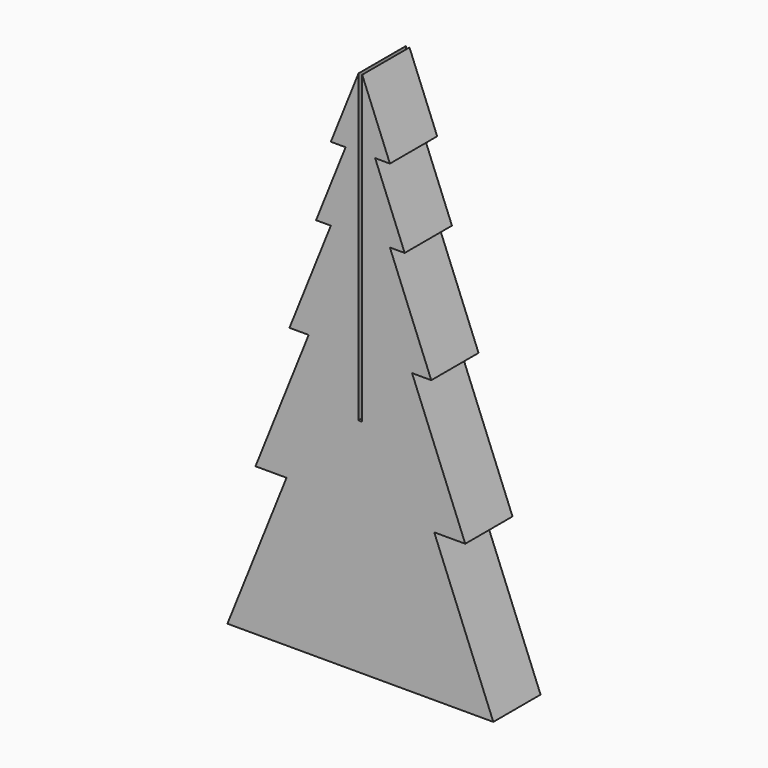
from build123d import *

# Parameters (mm, degrees)
F1_DEPTH = 203.2
F3_W     = 12.7
F3_H     = 1143
F4_DEPTH = 203.201


with BuildPart() as f1:
    # F0 (on Front) → F1 (new body)
    with BuildSketch(Plane.XZ):
        Polygon((101.6, 1574.8), (0, 1828.8), (-101.6, 1574.8), (-50.8, 1574.8), (-152.4, 1320.8), (-101.6, 1320.8), (-243.84, 965.2), (-177.8, 965.2), (-360.68, 508), (-254, 508), (-457.2, 0), (457.2, 0), (254, 508), (360.68, 508), (177.8, 965.2), (243.84, 965.2), (101.6, 1320.8), (152.4, 1320.8), (50.8, 1574.8), align=None)
    extrude(amount=F1_DEPTH)

    # F3 (on face) → F4 (cut, through all)
    with BuildSketch(Plane.XZ.offset(203.2)):
        with Locations((0, 1333.5)):
            Rectangle(F3_W, F3_H)
    extrude(amount=-F4_DEPTH, mode=Mode.SUBTRACT)


solid = f1.part
